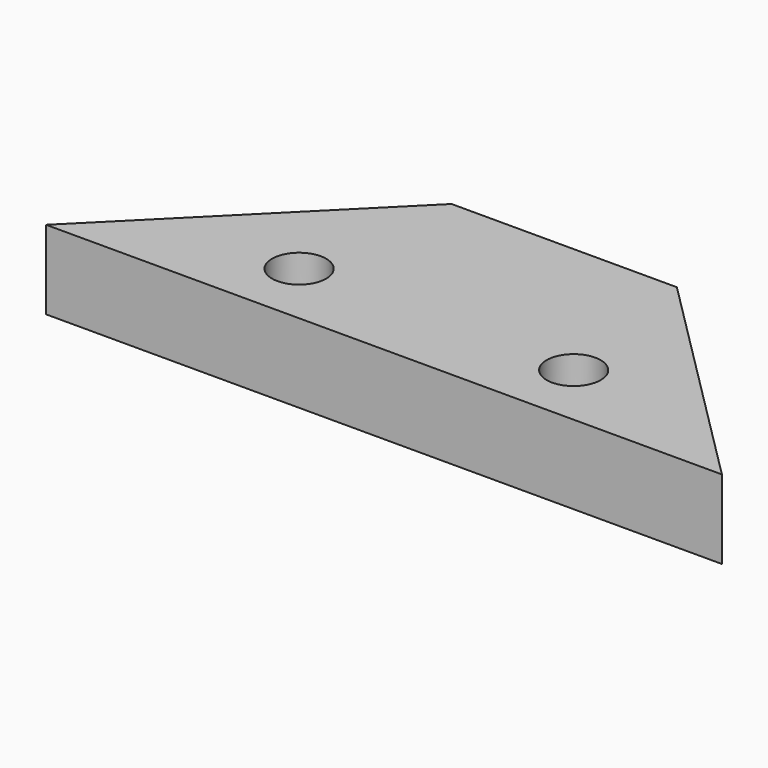
from build123d import *

# Parameters (mm, degrees)
F0_R     = 1.2
F1_DEPTH = 3.5


with BuildPart() as f1:
    # F0 (on Top) → F1 (new body)
    with BuildSketch(Plane.XY):
        Polygon((20, -5), (10, 5), (0, 5), (-10, -5), align=None)
        with Locations((-1.093396, -2.093396)):
            Circle(F0_R, mode=Mode.SUBTRACT)
        with Locations((11.093396, -2.093396)):
            Circle(F0_R, mode=Mode.SUBTRACT)
    extrude(amount=F1_DEPTH)


with BuildPart() as f2_1:
    # F2: copy of F1
    add(f1.part)


solid = f2_1.part
